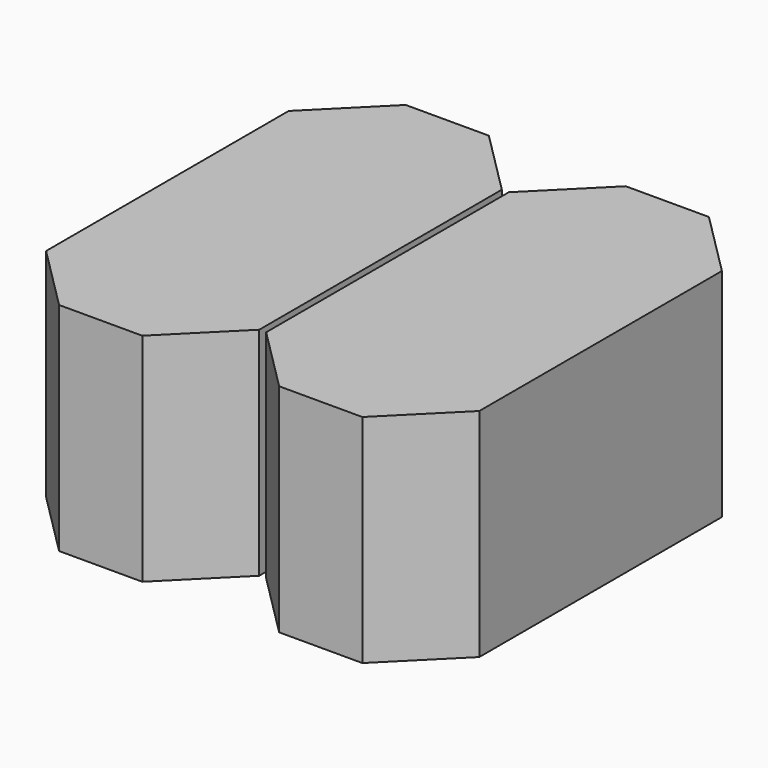
from build123d import *

# Parameters (mm, degrees)
BOX025_W         = 2.54
BOX025_H         = 3.2
BOX025_DEPTH     = 2.3
BOX023_W         = 2.46
BOX023_H         = 5
BOX023_DEPTH     = 2.5
CHAMFER007_SIZE  = 0.75
ARRAY010_X_COUNT = 2
ARRAY010_X_PITCH = 2.54


with BuildPart() as cube009:
    # Box025 → Box025 (new body)
    with BuildSketch(Plane(origin=(0, -0.33, 0.1), x_dir=(1, 0, 0), z_dir=(0, 0, 1))):
        with Locations((1.27, 1.6)):
            Rectangle(BOX025_W, BOX025_H)
    extrude(amount=BOX025_DEPTH)


with BuildPart() as body007:
    # Box023 → Box023 (new body)
    with BuildSketch(Plane(origin=(-1.23, -1.23, 0), x_dir=(1, 0, 0), z_dir=(0, 0, 1))):
        with Locations((1.23, 2.5)):
            Rectangle(BOX023_W, BOX023_H)
    extrude(amount=BOX023_DEPTH)

    # Chamfer007
    chamfer007_edges = [body007.edges().sort_by_distance(p)[0] for p in [
        (-1.23, -1.23, 1.25),
        (-1.23, 3.77, 1.25),
        (1.23, -1.23, 1.25),
        (1.23, 3.77, 1.25),
    ]]
    chamfer(chamfer007_edges, length=CHAMFER007_SIZE)

    # Array010 X: Body007 ×2


with BuildPart() as body007_1:
    add(body007.part)
    with Locations(*[(i * ARRAY010_X_PITCH, 0, 0) for i in range(1, ARRAY010_X_COUNT)]):
        add(body007.part)

    # Fusion021: union Cube009
    add(cube009.part)


solid = body007_1.part
